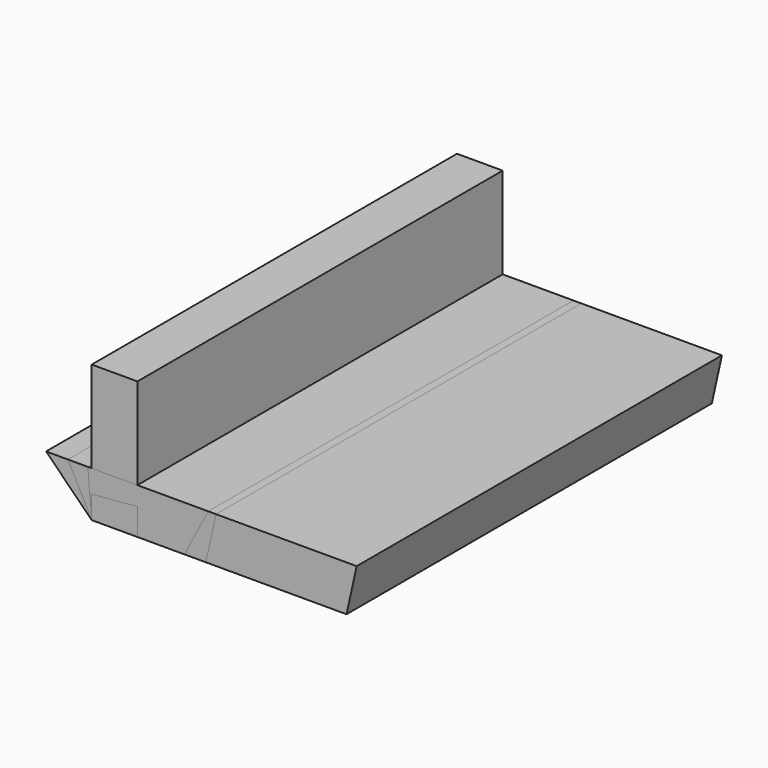
from build123d import *

# Parameters (mm, degrees)
F0_W      = 10
F0_H      = 30
F1_DEPTH  = 100
F3_DEPTH  = 100
F5_DEPTH  = 100
F7_DEPTH  = 100
F9_DEPTH  = 100
F11_DEPTH = 100
F13_DEPTH = 100
F15_DEPTH = 100
F17_DEPTH = 100


with BuildPart() as f1:
    # F0 (on Front) → F1 (new body)
    with BuildSketch(Plane.XZ):
        with Locations((5, 15)):
            Rectangle(F0_W, F0_H)
    extrude(amount=F1_DEPTH)


with BuildPart() as f3:
    # F2 (on Front) → F3 (new body)
    with BuildSketch(Plane.XZ):
        Polygon((0, 10), (0, 0), (39.74, 0), (37.060508, 10), align=None)
    extrude(amount=F3_DEPTH)


with BuildPart() as f5:
    # F4 (on Front) → F5 (new body)
    with BuildSketch(Plane.XZ):
        Polygon((-4.142136, 10), (0, 0), (25, 0), (27.679492, 10), align=None)
    extrude(amount=F5_DEPTH)


with BuildPart() as f7:
    # F6 (on Front) → F7 (new body)
    with BuildSketch(Plane.XZ):
        Polygon((-2.679492, 10), (0, 0), (40, 0), (37.320508, 10), align=None)
    extrude(amount=F7_DEPTH)


with BuildPart() as f9:
    # F8 (on Front) → F9 (new body)
    with BuildSketch(Plane.XZ):
        Polygon((-10, 10), (0, 0), (20.41, 0), (24.552136, 10), align=None)
    extrude(amount=F9_DEPTH)


with BuildPart() as f11:
    # F10 (on Front) → F11 (new body)
    with BuildSketch(Plane.XZ):
        Polygon((-10, 10), (0, 0), (55.81, 0), (58.026947, 10), align=None)
    extrude(amount=F11_DEPTH)


with BuildPart() as f13:
    # F12 (on Front) → F13 (new body)
    with BuildSketch(Plane.XZ):
        Polygon((-5.205671, 10), (0, 0), (25, 0), (27.216947, 10), align=None)
    extrude(amount=F13_DEPTH)


with BuildPart() as f15:
    # F14 (on Front) → F15 (new body)
    with BuildSketch(Plane.XZ):
        Polygon((-0.874887, 10), (0, 0), (20.3, 0), (25.505671, 10), align=None)
    extrude(amount=F15_DEPTH)


with BuildPart() as f17:
    # F16 (on Front) → F17 (new body)
    with BuildSketch(Plane.XZ):
        Polygon((0, 5), (0, 0), (10, 0), (10, 5.874887), align=None)
    extrude(amount=F17_DEPTH)


solid = Compound([f1.part, f3.part, f5.part, f7.part, f9.part, f11.part, f13.part, f15.part, f17.part])
